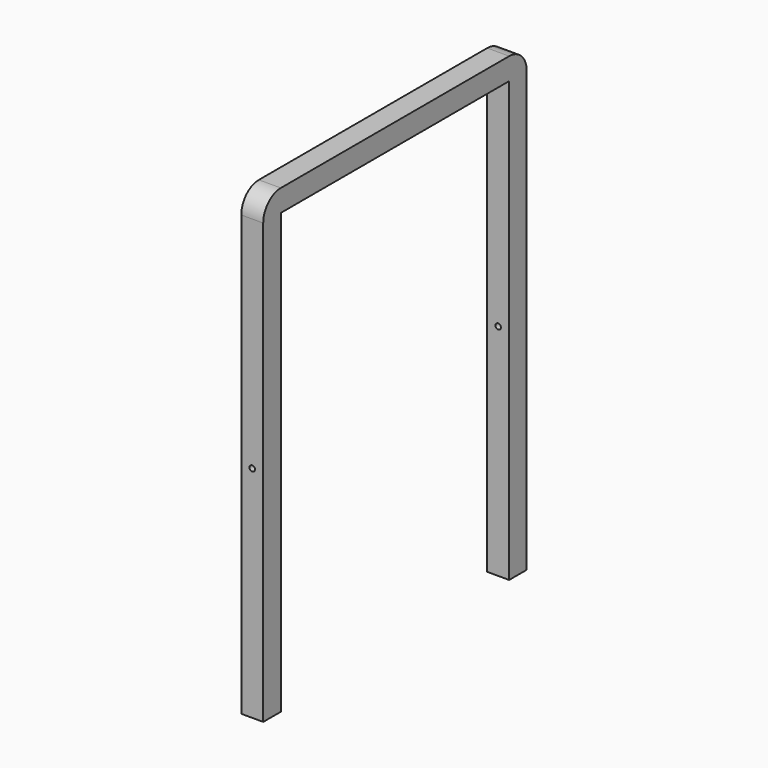
from build123d import *

# Parameters (mm, degrees)
F0_W     = 20
F0_H     = 400
F0_W_2   = 260
F0_H_2   = 20
F1_DEPTH = 10
F2_R     = 2.5
F3_DEPTH = 3000


with BuildPart() as f1:
    # F0 (on Right) → F1 (new body, symmetric)
    with BuildSketch(Plane.YZ):
        with Locations((-140, 0)):
            Rectangle(F0_W, F0_H)
        with BuildLine():
            ThreePointArc((-130, 220), (-144.142136, 214.142136), (-150, 200))
            Line((-150, 200), (-130, 200))
            Line((-130, 200), (-130, 220))
        make_face()
        with Locations((0, 210)):
            Rectangle(F0_W_2, F0_H_2)
        with BuildLine():
            Line((130, 220), (130, 200))
            Line((130, 200), (150, 200))
            ThreePointArc((150, 200), (144.142136, 214.142136), (130, 220))
        make_face()
        with Locations((140, 0)):
            Rectangle(F0_W, F0_H)
    extrude(amount=F1_DEPTH, both=True)

    # F2 (on face) → F3 (cut)
    with BuildSketch(Plane.XZ.offset(150)):
        Circle(F2_R)
    extrude(amount=-F3_DEPTH, mode=Mode.SUBTRACT)


solid = f1.part
